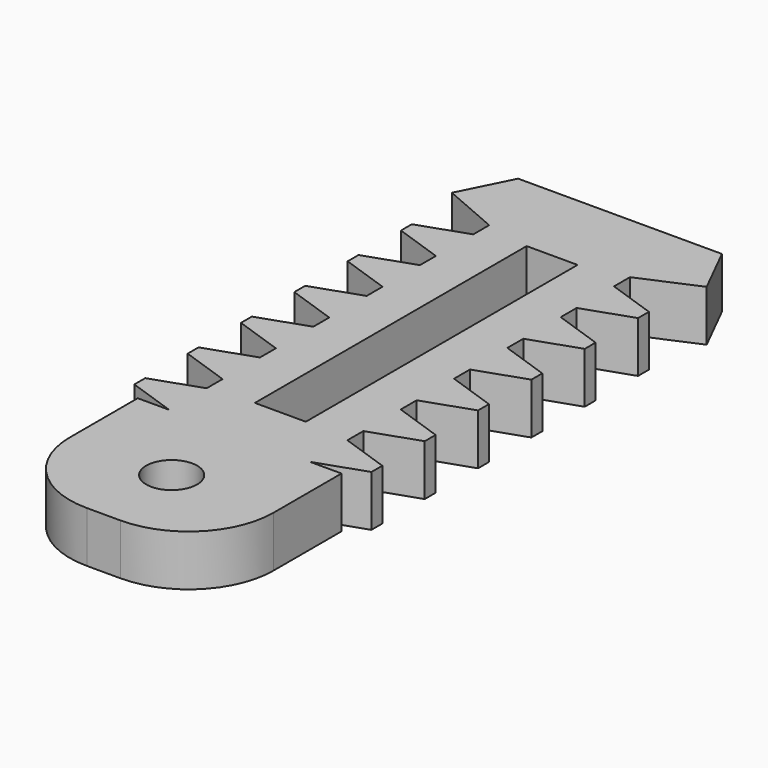
from build123d import *

# Parameters (mm, degrees)
F0_R     = 1.5
F0_W     = 3
F0_H     = 20
F1_DEPTH = 3
F3_DEPTH = 25


with BuildPart() as f1:
    # F0 (on Top) → F1 (new body)
    with BuildSketch(Plane.XY):
        with BuildLine():
            Line((-7.5, 25), (-7.5, 0))
            Line((-7.5, 0), (-6, 0))
            Line((-6, 0), (-6, -5))
            ThreePointArc((-6, -5), (-4.535534, -8.535534), (-1, -10))
            Line((-1, -10), (1, -10))
            ThreePointArc((1, -10), (4.535534, -8.535534), (6, -5))
            Line((6, -5), (6, 0))
            Line((6, 0), (7.5, 0))
            Line((7.5, 0), (7.5, 25))
            Line((7.5, 25), (6, 28))
            Line((6, 28), (-6, 28))
            Line((-6, 28), (-7.5, 25))
        make_face()
        with Locations((0, -5)):
            Circle(F0_R, mode=Mode.SUBTRACT)
        with Locations((0, 13)):
            Rectangle(F0_W, F0_H, mode=Mode.SUBTRACT)
    extrude(amount=F1_DEPTH)

    # F2 (on face) → F3 (cut)
    with BuildSketch(Plane(origin=(0, 0, 0), x_dir=(1, 0, 0), z_dir=(0, 0, -1))):
        Polygon((-6.98, -0.976704), (-4.143444, 0), (-6, 0), (-7.5, 0), (-7.5, -25), (-4.143444, -23.55), (-4.143444, -22.378409), (-6.98, -21.401704), (-6.98, -20.601704), (-4.143444, -19.625), (-4.143444, -18.453409), (-6.98, -17.476704), (-6.98, -16.676704), (-4.143444, -15.7), (-4.143444, -14.528409), (-6.98, -13.551704), (-6.98, -12.751704), (-4.143444, -11.775), (-4.143444, -10.603409), (-6.98, -9.626704), (-6.98, -8.826704), (-4.143444, -7.85), (-4.143444, -6.678409), (-6.98, -5.701704), (-6.98, -4.901704), (-4.143444, -3.925), (-4.143444, -2.753409), (-6.98, -1.776704), align=None)
        Polygon((4.143444, -23.55), (7.5, -25), (7.5, 0), (6, 0), (4.143444, 0), (6.98, -0.976704), (6.98, -1.776704), (4.143444, -2.753409), (4.143444, -3.925), (6.98, -4.901704), (6.98, -5.701704), (4.143444, -6.678409), (4.143444, -7.85), (6.98, -8.826704), (6.98, -9.626704), (4.143444, -10.603409), (4.143444, -11.775), (6.98, -12.751704), (6.98, -13.551704), (4.143444, -14.528409), (4.143444, -15.7), (6.98, -16.676704), (6.98, -17.476704), (4.143444, -18.453409), (4.143444, -19.625), (6.98, -20.601704), (6.98, -21.401704), (4.143444, -22.378409), align=None)
    extrude(amount=-F3_DEPTH, mode=Mode.SUBTRACT)


solid = f1.part
